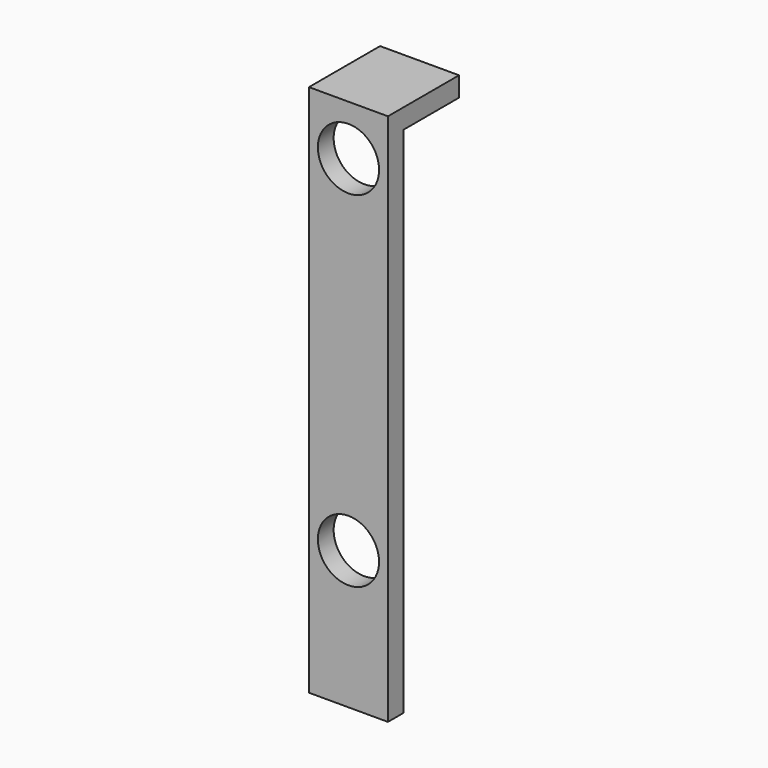
from build123d import *

# Parameters (mm, degrees)
F1_DEPTH = 8
F2_R     = 3.1
F3_DEPTH = 25


with BuildPart() as f1:
    # F0 (on Right) → F1 (new body)
    with BuildSketch(Plane.YZ):
        Polygon((0, -52), (0, 0), (7, 0), (7, 2), (-2, 2), (-2, -52), align=None)
    extrude(amount=F1_DEPTH)

    # F2 (on face) → F3 (cut)
    with BuildSketch(Plane.XZ.offset(2)):
        with Locations((4, -3.074622)):
            Circle(F2_R)
        with Locations((4, -38.02098)):
            Circle(F2_R)
    extrude(amount=-F3_DEPTH, mode=Mode.SUBTRACT)


solid = f1.part
